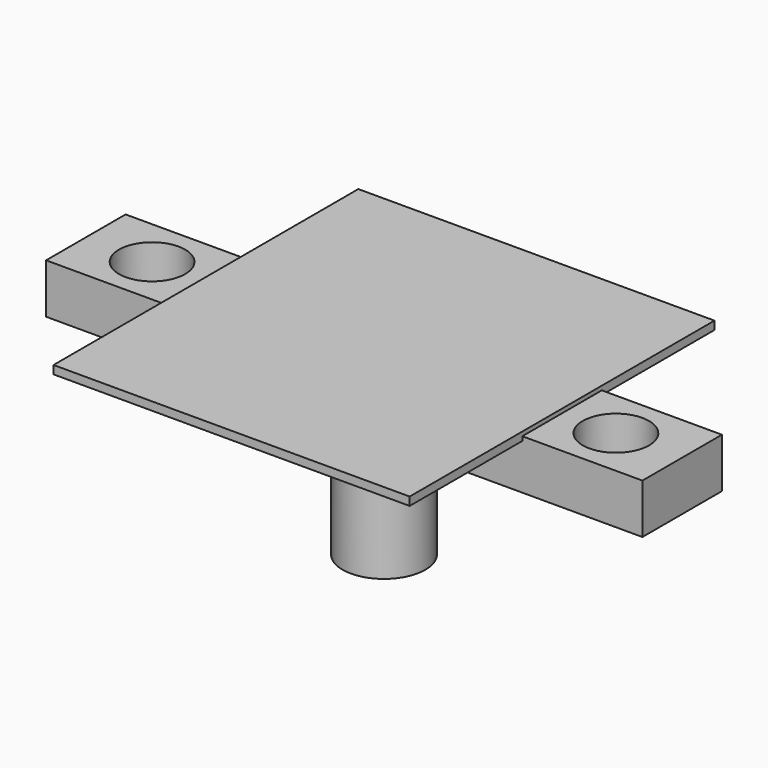
from build123d import *

# Parameters (mm, degrees)
F0_W     = 228.6
F0_H     = 38.1
F0_R     = 12.7
F1_DEPTH = 19.05
F2_W     = 136.525
F2_H     = 38.1
F2_H_2   = 53.975
F3_DEPTH = 1.5875
F4_R     = 15.875
F5_DEPTH = 50.8


with BuildPart() as f1:
    # F0 (on Top) → F1 (new body)
    with BuildSketch(Plane.XY):
        Rectangle(F0_W, F0_H)
        with Locations((-88.9, 0)):
            Circle(F0_R, mode=Mode.SUBTRACT)
        with Locations((88.9, 0)):
            Circle(F0_R, mode=Mode.SUBTRACT)
    extrude(amount=F1_DEPTH)

    # F2 (on face) → F3 (join, symmetric)
    with BuildSketch(Plane.XY.offset(19.05)):
        Rectangle(F2_W, F2_H)
        with Locations((0, 46.0375)):
            Rectangle(F2_W, F2_H_2)
        with Locations((0, -46.0375)):
            Rectangle(F2_W, F2_H_2)
    extrude(amount=F3_DEPTH, both=True)

    # F4 (on face) → F5 (join)
    with BuildSketch(Plane(origin=(0, 0, 0), x_dir=(1, 0, 0), z_dir=(0, 0, -1))):
        Circle(F4_R)
    extrude(amount=F5_DEPTH)


solid = f1.part
